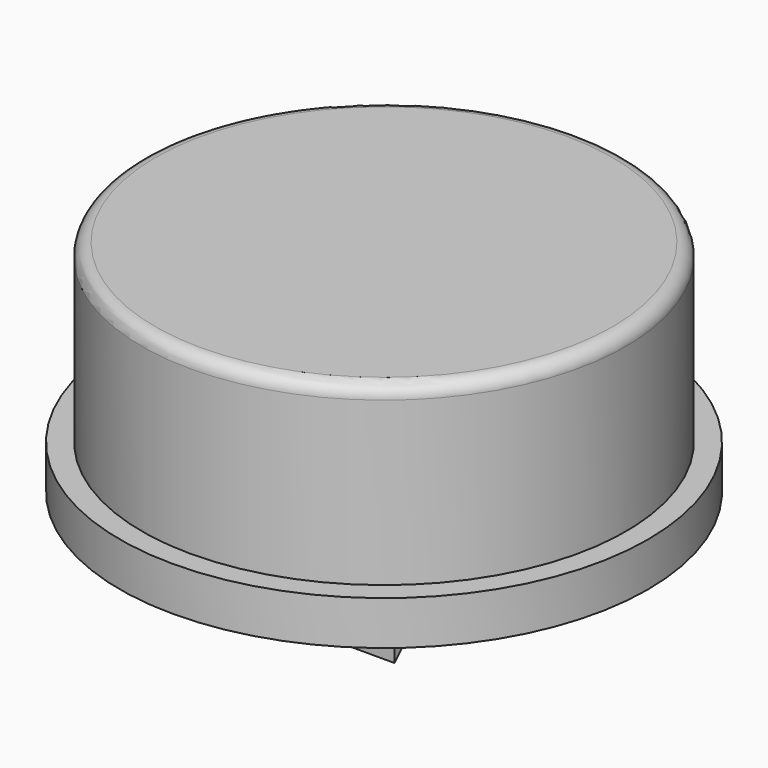
from build123d import *

# Parameters (mm, degrees)
PAD004_DEPTH              = 4
BOX019_W                  = 2
BOX019_H                  = 0.4
BOX019_DEPTH              = 5.7
PAD003_DEPTH              = 4
BOX021_W                  = 2
BOX021_H                  = 0.4
BOX021_DEPTH              = 5.7
BOX020_W                  = 3
BOX020_H                  = 0.4
BOX020_DEPTH              = 4.5
ARRAY_COUNT               = 4
CYLINDER015_R             = 5
CYLINDER015_DEPTH         = 5
CYLINDER019_R             = 6
CYLINDER019_DEPTH         = 1
CYLINDER018_R             = 5.5
CYLINDER018_DEPTH         = 4
FILLET_R                  = 0.3
FUSION001_PLACEMENT_ANGLE = 90


with BuildPart() as pad004:
    # Sketch007 → Pad004 (new body)
    with BuildSketch(Plane(origin=(0.3, -2, 0), x_dir=(-1, 0, 0), z_dir=(0, 1, 0))):
        Polygon((-1.9, 4.62141), (-1.9, -1.87859), (-1.1, -1.07859), (-1.5, -1.07859), (-1.5, 4.62141), align=None)
    extrude(amount=PAD004_DEPTH)


with BuildPart() as cubo008:
    # Box019 → Box019 (new body)
    with BuildSketch(Plane(origin=(-1, -2.2, -1.1), x_dir=(1, 0, 0), z_dir=(0, 0, 1))):
        with Locations((1, 0.2)):
            Rectangle(BOX019_W, BOX019_H)
    extrude(amount=BOX019_DEPTH)


with BuildPart() as pad003:
    # Sketch008 → Pad003 (new body)
    with BuildSketch(Plane.XZ.offset(-2)):
        Polygon((-2.2, 4.62141), (-2.2, -1.87859), (-1.4, -1.07859), (-1.8, -1.07859), (-1.8, 4.62141), align=None)
    extrude(amount=PAD003_DEPTH)


with BuildPart() as cubo007:
    # Box021 → Box021 (new body)
    with BuildSketch(Plane(origin=(-1, 1.8, -1.1), x_dir=(1, 0, 0), z_dir=(0, 0, 1))):
        with Locations((1, 0.2)):
            Rectangle(BOX021_W, BOX021_H)
    extrude(amount=BOX021_DEPTH)


with BuildPart() as array:
    # Box020 → Box020 (new body)
    with BuildSketch(Plane(origin=(2.1, -0.2, 0), x_dir=(1, 0, 0), z_dir=(0, 0, 1))):
        with Locations((1.5, 0.2)):
            Rectangle(BOX020_W, BOX020_H)
    extrude(amount=BOX020_DEPTH)

    # Array: Array ×4 about axis
    array_axis = Axis((0, 0, 0), (0, 0, 1))


with BuildPart() as array_1:
    add(array.part)
    for i in range(1, ARRAY_COUNT):
        add(array.part.rotate(array_axis, i * 360 / ARRAY_COUNT))


with BuildPart() as cilindro018:
    # Cylinder015 → Cylinder015 (new body)
    with BuildSketch(Plane.XY.offset(-0.5)):
        Circle(CYLINDER015_R)
    extrude(amount=CYLINDER015_DEPTH)


with BuildPart() as cilindro017:
    # Cylinder019 → Cylinder019 (new body)
    with BuildSketch(Plane.XY):
        Circle(CYLINDER019_R)
    extrude(amount=CYLINDER019_DEPTH)


with BuildPart() as obj1:
    # Cylinder018 → Cylinder018 (new body)
    with BuildSketch(Plane.XY.offset(1)):
        Circle(CYLINDER018_R)
    extrude(amount=CYLINDER018_DEPTH)

    # Fusion002: union Cilindro017
    add(cilindro017.part)

    # Cut032: cut Cilindro018
    add(cilindro018.part, mode=Mode.SUBTRACT)

    # Fillet
    fillet_edges = [obj1.edges().sort_by_distance(p)[0] for p in [
        (-5.5, 0, 5),
    ]]
    fillet(fillet_edges, radius=FILLET_R)

    # Fusion001: union Pad004, Cubo008, Pad003, Cubo007, Array
    add(pad004.part)
    add(cubo008.part)
    add(pad003.part)
    add(cubo007.part)
    add(array_1.part)


with BuildPart() as obj1_1:
    # Fusion001 placement: moved
    add(obj1.part.moved(Location((0, 1.7, 8.6))).rotate(Axis((0, 1.7, 8.6), (0, 0, 1)), FUSION001_PLACEMENT_ANGLE))


solid = obj1_1.part
